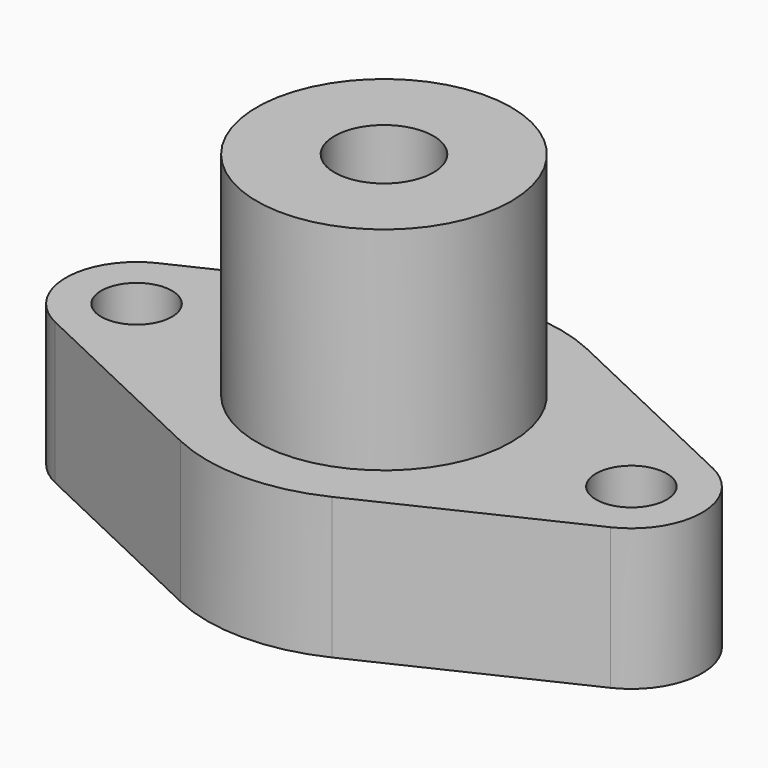
from build123d import *

# Parameters (mm, degrees)
F1_DEPTH = 20
F2_R     = 10
F3_R     = 25
F5_D     = 10
F6_R     = 18
F7_DEPTH = 30
F9_D     = 14
F9_DEPTH = 31
F9_TIP   = 4.2060243332


with BuildPart() as f1:
    # F0 (on Top) → F1 (new body)
    with BuildSketch(Plane.XY):
        Polygon((0, 27.66993), (-58.33, 0), (0, -27.66993), (58.33, 0), align=None)
    extrude(amount=F1_DEPTH)

    # F2
    f2_edges = [f1.edges().sort_by_distance(p)[0] for p in [
        (-58.33, 0, 10),
        (58.33, 0, 10),
    ]]
    fillet(f2_edges, radius=F2_R)

    # F3
    f3_edges = [f1.edges().sort_by_distance(p)[0] for p in [
        (0, -27.66993, 10),
        (0, 27.66993, 10),
    ]]
    fillet(f3_edges, radius=F3_R)

    # F5 (through all)
    with Locations(Plane.XY.offset(20)):
        with Locations((34.9977554223, 0), (-34.9977554223, 0)):
            Hole(F5_D / 2)

    # F6 (on face) → F7 (join)
    with BuildSketch(Plane.XY.offset(20)):
        Circle(F6_R)
    extrude(amount=F7_DEPTH)

    # F9
    with Locations(Plane.XY.offset(50)):
        with Locations((0, 0)):
            Hole(F9_D / 2, depth=F9_DEPTH)
            with Locations((0, 0, -(F9_DEPTH + F9_TIP / 2))):  # 118° drill point
                Cone(0, F9_D / 2, F9_TIP, mode=Mode.SUBTRACT)


solid = f1.part
